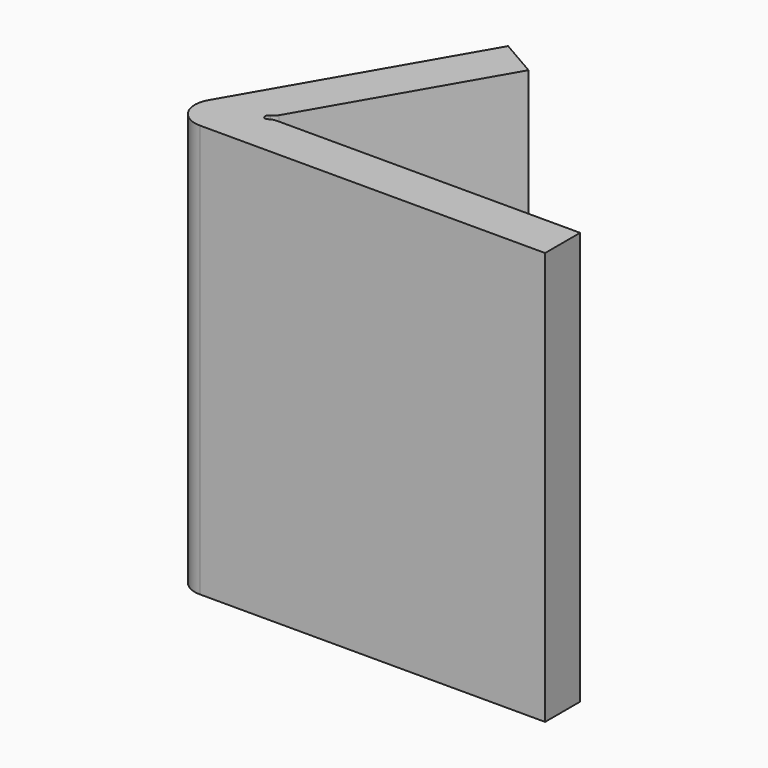
from build123d import *

# Parameters (mm, degrees)
F1_DEPTH = 83.82
F2_R     = 2.54


with BuildPart() as f1:
    # F0 (on Top) → F1 (new body)
    with BuildSketch(Plane.XY):
        with BuildLine():
            ThreePointArc((4.399409, 7.62), (4.399409, 2.54), (8.798818, 0))
            Line((8.798818, 0), (78.897932, 0))
            Line((78.897932, 0), (78.897932, 8.89))
            Line((78.897932, 8.89), (16.667932, 8.89))
            Line((16.667932, 8.89), (15.825417, 8.403574))
            ThreePointArc((15.825417, 8.403574), (14.957991, 8.636), (15.190417, 9.503426))
            Line((15.190417, 9.503426), (16.032932, 9.989852))
            Line((16.032932, 9.989852), (37.622932, 47.384829))
            Line((37.622932, 47.384829), (29.923966, 51.829829))
            Line((29.923966, 51.829829), (4.399409, 7.62))
        make_face()
    extrude(amount=F1_DEPTH)

    # F2
    f2_edges = [f1.edges().sort_by_distance(p)[0] for p in [
        (16.032932, 9.989852, 41.91),
        (16.667932, 8.89, 41.91),
    ]]
    fillet(f2_edges, radius=F2_R)


solid = f1.part
